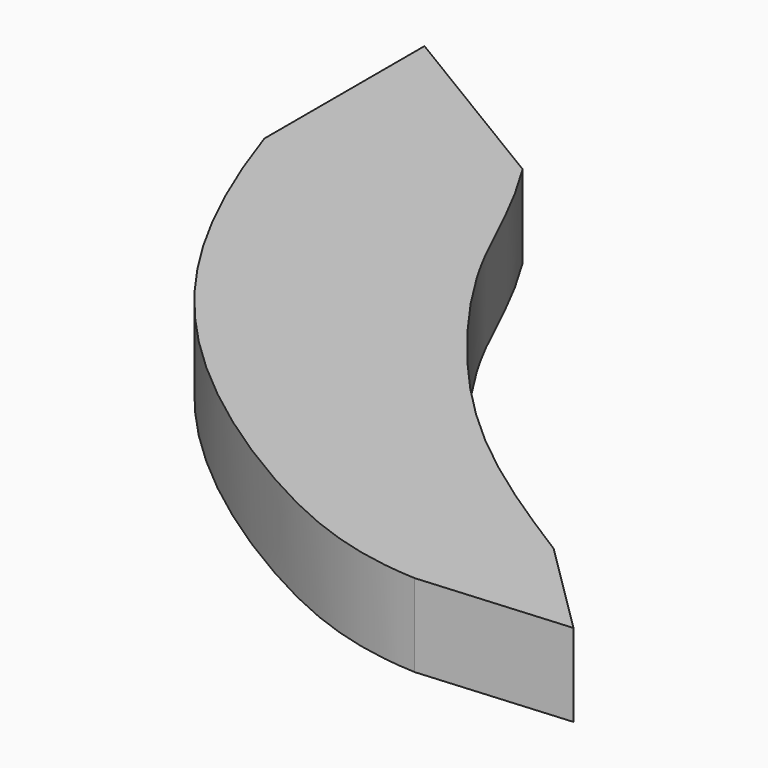
from build123d import *

# Parameters (mm, degrees)
F1_DEPTH = 2.54


with BuildPart() as f1:
    # F0 (on Top) → F1 (new body)
    with BuildSketch(Plane.XY):
        with BuildLine():
            Line((-6.8689030595, 9.1777555645), (-12.7, 12.7))
            Line((-12.7, 12.7), (-12.7, 6.5541034564))
            add(Edge.make_bspline(
                [(-12.7, 6.5541034564), (-11.4264674408, 2.7717995687), (-8.4335990902, -2.4949723685), (-1.2687439799, -7.502981985), (2.3193687285, -8.9237226373), (4.3745739385, -9.0193133801)],
                knots=[0, 0, 0, 0, 0.3772203963, 0.7158577998, 1, 1, 1, 1], degree=3))
            Line((4.3745739385, -9.0193133801), (8.9624347165, -8.6612729356))
            Line((8.9624347165, -8.6612729356), (6.0119470581, -5.73570095))
            add(Edge.make_bspline(
                [(-6.8689030595, 9.1777555645), (-5.6611211373, 7.2430889579), (-4.8376727376, 4.5212989831), (0.115588476, -2.0070970134), (4.1414105506, -4.5612166884), (6.0119470581, -5.73570095)],
                knots=[0, 0, 0, 0, 0.2987740523, 0.6568424029, 1, 1, 1, 1], degree=3))
        make_face()
    extrude(amount=F1_DEPTH)


solid = f1.part
